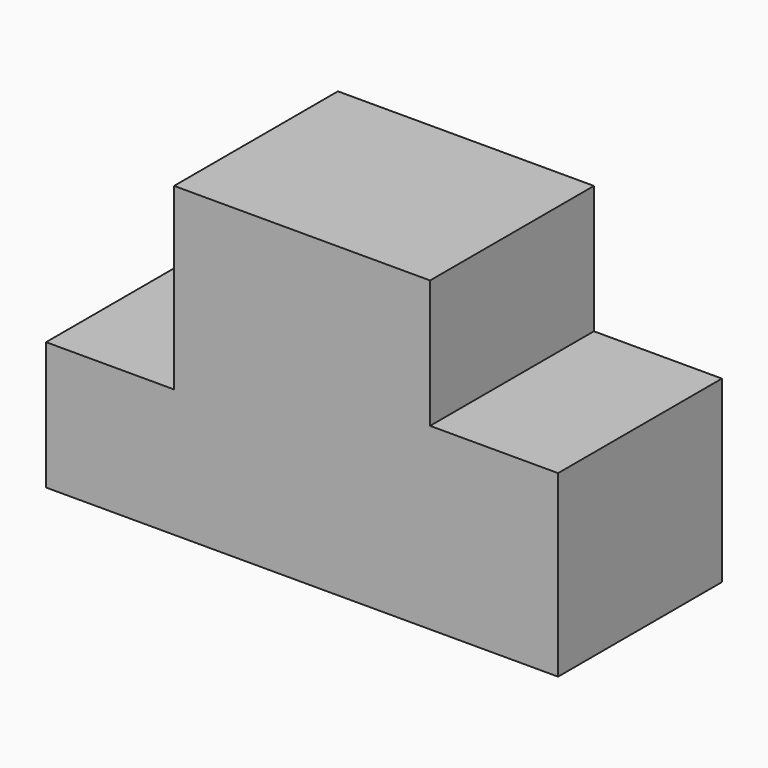
from build123d import *

# Parameters (mm, degrees)
F0_W     = 100
F0_H     = 60
F1_DEPTH = 40
F2_W     = 25
F2_H     = 35
F3_DEPTH = 40.001
F4_W     = 25
F4_H     = 25
F5_DEPTH = 40.001


with BuildPart() as f1:
    # F0 (on Front) → F1 (new body)
    with BuildSketch(Plane.XZ):
        Rectangle(F0_W, F0_H)
    extrude(amount=F1_DEPTH)

    # F2 (on face) → F3 (cut, through all)
    with BuildSketch(Plane.XZ.offset(40)):
        with Locations((-37.5, 12.5)):
            Rectangle(F2_W, F2_H)
    extrude(amount=-F3_DEPTH, mode=Mode.SUBTRACT)

    # F4 (on face) → F5 (cut, through all)
    with BuildSketch(Plane(origin=(0, 0, 0), x_dir=(-1, 0, 0), z_dir=(0, 1, 0))):
        with Locations((-37.5, 17.5)):
            Rectangle(F4_W, F4_H)
    extrude(amount=-F5_DEPTH, mode=Mode.SUBTRACT)


solid = f1.part
